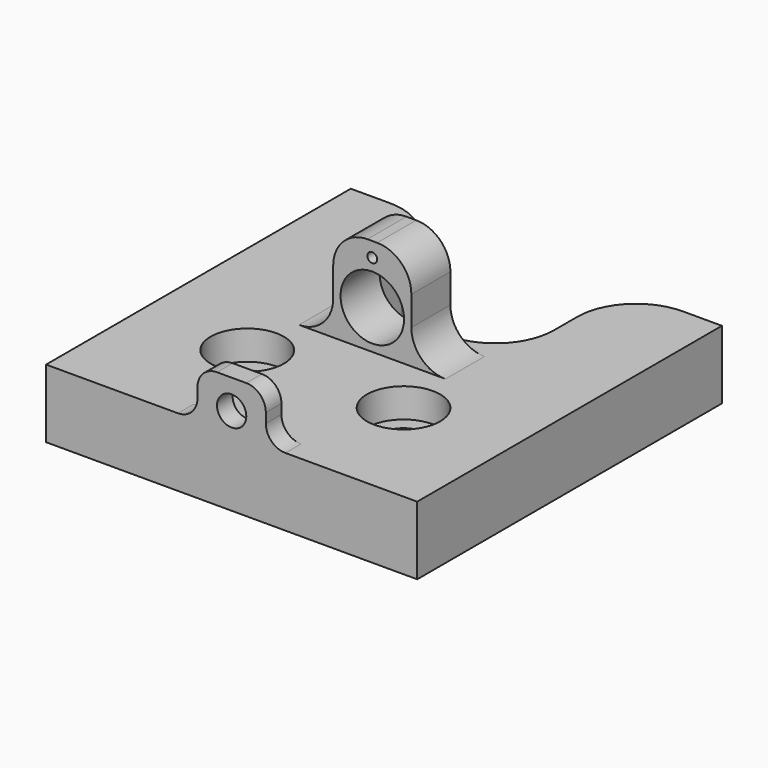
from build123d import *

# Parameters (mm, degrees)
PAD_DEPTH       = 7
FILLET_R        = 6
SKETCH001_R     = 2.25
POCKET_DEPTH    = 8
SKETCH002_W     = 8
SKETCH002_H     = 5
PAD001_DEPTH    = 10
FILLET001_R     = 3.5
SKETCH003_R     = 3.25
SKETCH003_R_2   = 0.5
POCKET001_DEPTH = 7
SKETCH004_W     = 7
SKETCH004_H     = 2
PAD002_DEPTH    = 5
SKETCH005_R     = 1.5
POCKET002_DEPTH = 5
FILLET002_R     = 2
SKETCH006_R     = 3.75
POCKET003_DEPTH = 3


with BuildPart() as part:
    # Sketch → Pad (new body)
    with BuildSketch(Plane.XY):
        Polygon((19, 0), (-19, 0), (-19, 39), (-9, 39), (-9, 24), (9, 24), (9, 39), (19, 39), align=None)
    extrude(amount=PAD_DEPTH)

    # Fillet
    fillet_edges = [part.edges().sort_by_distance(p)[0] for p in [
        (-9, 39, 3.5),
        (-9, 24, 3.5),
        (9, 39, 3.5),
        (9, 24, 3.5),
    ]]
    fillet(fillet_edges, radius=FILLET_R)

    # Sketch001 (on Face5 of Fillet) → Pocket (cut)
    with BuildSketch(Plane.XY.offset(7)):
        with Locations((-8, 12)):
            Circle(SKETCH001_R)
        with Locations((8, 12)):
            Circle(SKETCH001_R)
    extrude(amount=-POCKET_DEPTH, mode=Mode.SUBTRACT)

    # Sketch002 (on Face5 of Pocket) → Pad001 (join)
    with BuildSketch(Plane.XY.offset(7)):
        with Locations((0, 20.5)):
            Rectangle(SKETCH002_W, SKETCH002_H)
    extrude(amount=PAD001_DEPTH)

    # Fillet001
    fillet001_edges = [part.edges().sort_by_distance(p)[0] for p in [
        (-4, 20.5, 7),
        (-4, 20.5, 17),
        (4, 20.5, 17),
        (4, 20.5, 7),
    ]]
    fillet(fillet001_edges, radius=FILLET001_R)

    # Sketch003 (on Face4 of Fillet001) → Pocket001 (cut)
    with BuildSketch(Plane.XZ.offset(-18)):
        with Locations((0, 11)):
            Circle(SKETCH003_R)
        with Locations((0, 15.5)):
            Circle(SKETCH003_R_2)
    extrude(amount=-POCKET001_DEPTH, mode=Mode.SUBTRACT)

    # Sketch004 (on Face1 of Pocket001) → Pad002 (join)
    with BuildSketch(Plane.XY.offset(7)):
        with Locations((0, 1)):
            Rectangle(SKETCH004_W, SKETCH004_H)
    extrude(amount=PAD002_DEPTH)

    # Sketch005 → Pocket002 (cut)
    with BuildSketch(Plane.XZ):
        with Locations((0, 9)):
            Circle(SKETCH005_R)
    extrude(amount=-POCKET002_DEPTH, mode=Mode.SUBTRACT)

    # Fillet002
    fillet002_edges = [part.edges().sort_by_distance(p)[0] for p in [
        (-3.5, 1, 12),
        (-3.5, 1, 7),
        (3.5, 1, 12),
        (3.5, 1, 7),
    ]]
    fillet(fillet002_edges, radius=FILLET002_R)

    # Sketch006 (on Face1 of Fillet002) → Pocket003 (cut)
    with BuildSketch(Plane.XY.offset(7)):
        with Locations((-8, 12)):
            Circle(SKETCH006_R)
        with Locations((8, 12)):
            Circle(SKETCH006_R)
    extrude(amount=-POCKET003_DEPTH, mode=Mode.SUBTRACT)


solid = part.part
